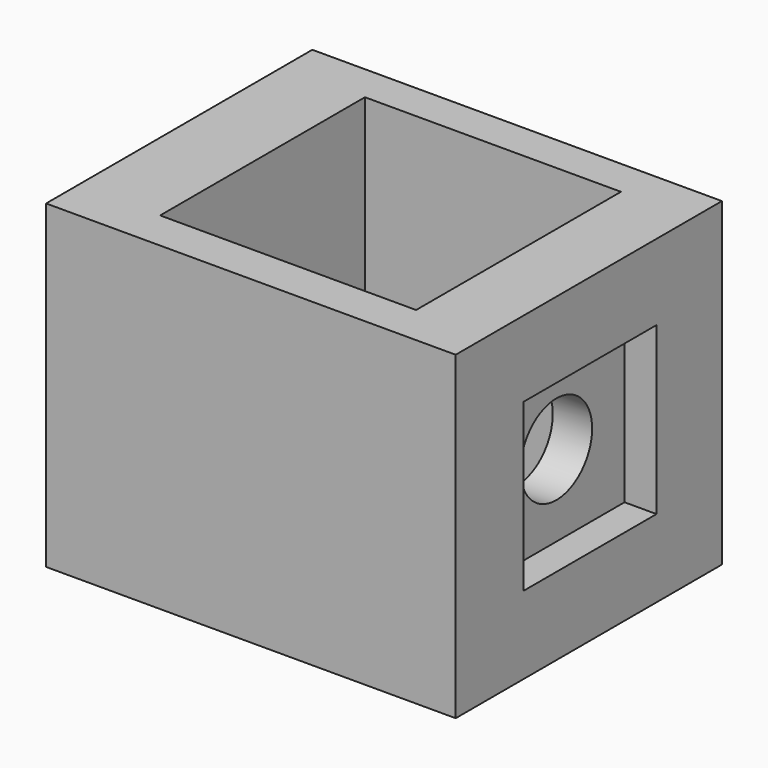
from build123d import *

# Parameters (mm, degrees)
F0_W      = 64
F0_H      = 52
F1_DEPTH  = 50
F3_W      = 40
F3_H      = 40
F4_DEPTH  = 50
F5_W      = 26
F5_H      = 26
F6_DEPTH  = 5
F7_W      = 26
F7_H      = 26
F8_DEPTH  = 5
F9_R      = 7
F10_DEPTH = 64


with BuildPart() as f1:
    # F0 (on Top) → F1 (new body)
    with BuildSketch(Plane.XY):
        with Locations((-20.845396, -6.269739)):
            Rectangle(F0_W, F0_H)
    extrude(amount=F1_DEPTH)

    # F3 (on face) → F4 (cut)
    with BuildSketch(Plane.XY.offset(50)):
        with Locations((-20, -6.052631)):
            Rectangle(F3_W, F3_H)
    extrude(amount=-F4_DEPTH, mode=Mode.SUBTRACT)

    # F5 (on face) → F6 (cut)
    with BuildSketch(Plane.YZ.offset(11.154604)):
        with Locations((-6.042762, 25.138158)):
            Rectangle(F5_W, F5_H)
    extrude(amount=-F6_DEPTH, mode=Mode.SUBTRACT)

    # F7 (on face) → F8 (cut)
    with BuildSketch(Plane(origin=(-52.845396, 0, 0), x_dir=(0, -1, 0), z_dir=(-1, 0, 0))):
        with Locations((6.095397, 24.842106)):
            Rectangle(F7_W, F7_H)
    extrude(amount=-F8_DEPTH, mode=Mode.SUBTRACT)

    # F9 (on face) → F10 (cut)
    with BuildSketch(Plane(origin=(-47.845396, 0, 0), x_dir=(0, -1, 0), z_dir=(-1, 0, 0))):
        with Locations((6.365133, 24.842106)):
            Circle(F9_R)
    extrude(amount=-F10_DEPTH, mode=Mode.SUBTRACT)


solid = f1.part
